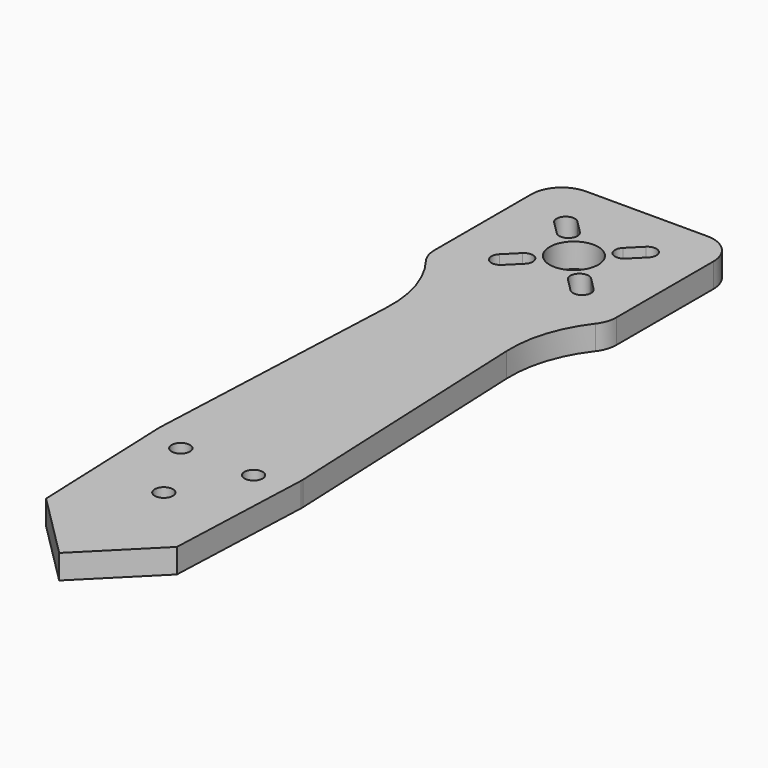
from build123d import *

# Parameters (mm, degrees)
F0_R     = 1.5
F0_R_2   = 4
F1_DEPTH = 4
F2_R     = 20


with BuildPart() as f1:
    # F0 (on Top) → F1 (new body)
    with BuildSketch(Plane.XY):
        with BuildLine():
            Line((-9.326818, 69.5), (-11.75, 14))
            ThreePointArc((-11.75, 14), (-11.754749, 13.79178), (-11.750823, 13.583543))
            Line((-11.750823, 13.583543), (-10.783378, -10.783378))
            Line((-10.783378, -10.783378), (0, -21.566757))
            Line((0, -21.566757), (10.783378, -10.783378))
            Line((10.783378, -10.783378), (11.750823, 13.583543))
            ThreePointArc((11.750823, 13.583543), (11.754749, 13.79178), (11.75, 14))
            Line((11.75, 14), (9.326818, 69.5))
            Line((9.326818, 69.5), (10, 69.5))
            ThreePointArc((10, 69.5), (13.535534, 70.964466), (15, 74.5))
            Line((15, 74.5), (15, 94.5))
            ThreePointArc((15, 94.5), (13.535534, 98.035534), (10, 99.5))
            Line((10, 99.5), (-10, 99.5))
            ThreePointArc((-10, 99.5), (-13.535534, 98.035534), (-15, 94.5))
            Line((-15, 94.5), (-15, 74.5))
            ThreePointArc((-15, 74.5), (-13.535534, 70.964466), (-10, 69.5))
            Line((-10, 69.5), (-9.326818, 69.5))
        make_face()
        Circle(F0_R, mode=Mode.SUBTRACT)
        with Locations((-6, 11)):
            Circle(F0_R, mode=Mode.SUBTRACT)
        with Locations((6, 11)):
            Circle(F0_R, mode=Mode.SUBTRACT)
        with BuildLine():
            ThreePointArc((-5.656854, 76.721825), (-7.778175, 76.721825), (-7.778175, 78.843146))
            Line((-7.778175, 78.843146), (-5.656854, 80.964466))
            ThreePointArc((-5.656854, 80.964466), (-3.535534, 80.964466), (-3.535534, 78.843146))
            Line((-3.535534, 78.843146), (-5.656854, 76.721825))
        make_face(mode=Mode.SUBTRACT)
        with BuildLine():
            ThreePointArc((-7.778175, 90.156854), (-7.778175, 92.278175), (-5.656854, 92.278175))
            Line((-5.656854, 92.278175), (-3.535534, 90.156854))
            ThreePointArc((-3.535534, 90.156854), (-3.535534, 88.035534), (-5.656854, 88.035534))
            Line((-5.656854, 88.035534), (-7.778175, 90.156854))
        make_face(mode=Mode.SUBTRACT)
        with Locations((0, 84.5)):
            Circle(F0_R_2, mode=Mode.SUBTRACT)
        with BuildLine():
            ThreePointArc((7.778175, 78.843146), (7.778175, 76.721825), (5.656854, 76.721825))
            Line((5.656854, 76.721825), (3.535534, 78.843146))
            ThreePointArc((3.535534, 78.843146), (3.535534, 80.964466), (5.656854, 80.964466))
            Line((5.656854, 80.964466), (7.778175, 78.843146))
        make_face(mode=Mode.SUBTRACT)
        with BuildLine():
            ThreePointArc((5.656854, 92.278175), (7.778175, 92.278175), (7.778175, 90.156854))
            Line((7.778175, 90.156854), (5.656854, 88.035534))
            ThreePointArc((5.656854, 88.035534), (3.535534, 88.035534), (3.535534, 90.156854))
            Line((3.535534, 90.156854), (5.656854, 92.278175))
        make_face(mode=Mode.SUBTRACT)
    extrude(amount=F1_DEPTH)

    # F2
    f2_edges = [f1.edges().sort_by_distance(p)[0] for p in [
        (-9.326818, 69.5, 2),
        (9.326818, 69.5, 2),
    ]]
    fillet(f2_edges, radius=F2_R)


solid = f1.part
